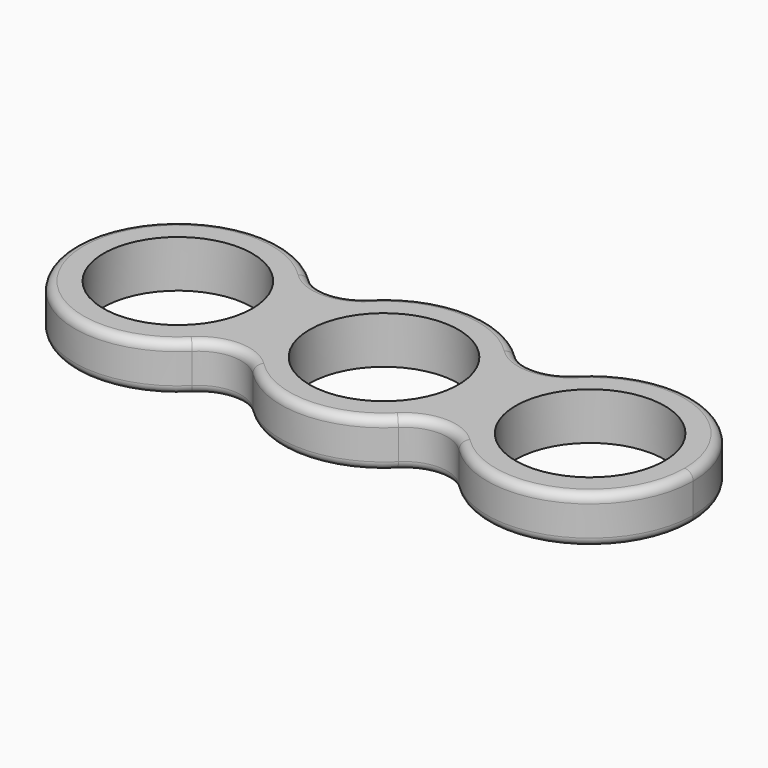
from build123d import *

# Parameters (mm, degrees)
F0_R     = 11.0109
F1_DEPTH = 6.985
F2_R     = 1.27


with BuildPart() as f1:
    # F0 (on Top) → F1 (new body)
    with BuildSketch(Plane.XY):
        with BuildLine():
            Line((15.24, 0), (11.0109, 0))
            ThreePointArc((11.0109, 0), (0, -11.0109), (-11.0109, 0))
            Line((-11.0109, 0), (-15.24, 0))
            ThreePointArc((-15.24, 0), (-14.0748737326, -5.844273215), (-10.7576470588, -10.7949353753))
            ThreePointArc((-10.7576470588, -10.7949353753), (0, -15.24), (10.7576470588, -10.7949353753))
            ThreePointArc((10.7576470588, -10.7949353753), (14.0748737326, -5.844273215), (15.24, 0))
        make_face()
        with BuildLine():
            ThreePointArc((-11.0109, 0), (0, 11.0109), (11.0109, 0))
            Line((11.0109, 0), (15.24, 0))
            ThreePointArc((15.24, 0), (14.0748737326, 5.844273215), (10.7576470588, 10.7949353753))
            ThreePointArc((10.7576470588, 10.7949353753), (0, 15.24), (-10.7576470588, 10.7949353753))
            ThreePointArc((-10.7576470588, 10.7949353753), (-14.0748737326, 5.844273215), (-15.24, 0))
            Line((-15.24, 0), (-11.0109, 0))
        make_face()
        with BuildLine():
            ThreePointArc((19.7223529412, -10.7949353753), (16.4051262674, -5.844273215), (15.24, 0))
            ThreePointArc((15.24, 0), (14.0748737326, -5.844273215), (10.7576470588, -10.7949353753))
            ThreePointArc((10.7576470588, -10.7949353753), (15.24, -8.9428251151), (19.7223529412, -10.7949353753))
        make_face()
        with BuildLine():
            ThreePointArc((10.7576470588, 10.7949353753), (14.0748737326, 5.844273215), (15.24, 0))
            ThreePointArc((15.24, 0), (16.4051262674, 5.844273215), (19.7223529412, 10.7949353753))
            ThreePointArc((19.7223529412, 10.7949353753), (15.24, 8.9428251151), (10.7576470588, 10.7949353753))
        make_face()
        with BuildLine():
            ThreePointArc((19.7223529412, 10.7949353753), (16.4051262674, 5.844273215), (15.24, 0))
            ThreePointArc((15.24, 0), (16.4051262674, -5.844273215), (19.7223529412, -10.7949353753))
            ThreePointArc((19.7223529412, -10.7949353753), (36.324273215, -14.0748737326), (45.72, 0))
            ThreePointArc((45.72, 0), (36.324273215, 14.0748737326), (19.7223529412, 10.7949353753))
        make_face()
        with BuildLine():
            ThreePointArc((41.4909, 0), (30.48, -11.0109), (19.4691, 0))
            ThreePointArc((19.4691, 0), (30.48, 11.0109), (41.4909, 0))
        make_face(mode=Mode.SUBTRACT)
        with BuildLine():
            ThreePointArc((-19.7223529412, -10.7949353753), (-16.4051262674, -5.844273215), (-15.24, 0))
            ThreePointArc((-15.24, 0), (-16.4051262674, 5.844273215), (-19.7223529412, 10.7949353753))
            ThreePointArc((-19.7223529412, 10.7949353753), (-45.72, 0), (-19.7223529412, -10.7949353753))
        make_face()
        with Locations((-30.48, 0)):
            Circle(F0_R, mode=Mode.SUBTRACT)
        with BuildLine():
            ThreePointArc((-10.7576470588, -10.7949353753), (-14.0748737326, -5.844273215), (-15.24, 0))
            ThreePointArc((-15.24, 0), (-16.4051262674, -5.844273215), (-19.7223529412, -10.7949353753))
            ThreePointArc((-19.7223529412, -10.7949353753), (-15.24, -8.9428251151), (-10.7576470588, -10.7949353753))
        make_face()
        with BuildLine():
            ThreePointArc((-19.7223529412, 10.7949353753), (-16.4051262674, 5.844273215), (-15.24, 0))
            ThreePointArc((-15.24, 0), (-14.0748737326, 5.844273215), (-10.7576470588, 10.7949353753))
            ThreePointArc((-10.7576470588, 10.7949353753), (-15.24, 8.9428251151), (-19.7223529412, 10.7949353753))
        make_face()
    extrude(amount=F1_DEPTH)

    # F2
    f2_edges = [f1.edges().sort_by_distance(p)[0] for p in [
        (-45.72, 0, 6.985),
        (0, 15.24, 6.985),
        (0, -15.24, 6.985),
        (-15.24, -8.942825, 6.985),
        (-15.24, 8.942825, 6.985),
        (15.24, 8.942825, 6.985),
        (45.72, 0, 6.985),
        (15.24, -8.942825, 6.985),
        (-45.72, 0, 0),
        (0, -15.24, 0),
        (45.72, 0, 0),
        (15.24, 8.942825, 0),
        (0, 15.24, 0),
        (-15.24, 8.942825, 0),
        (15.24, -8.942825, 0),
        (-15.24, -8.942825, 0),
    ]]
    fillet(f2_edges, radius=F2_R)


solid = f1.part
